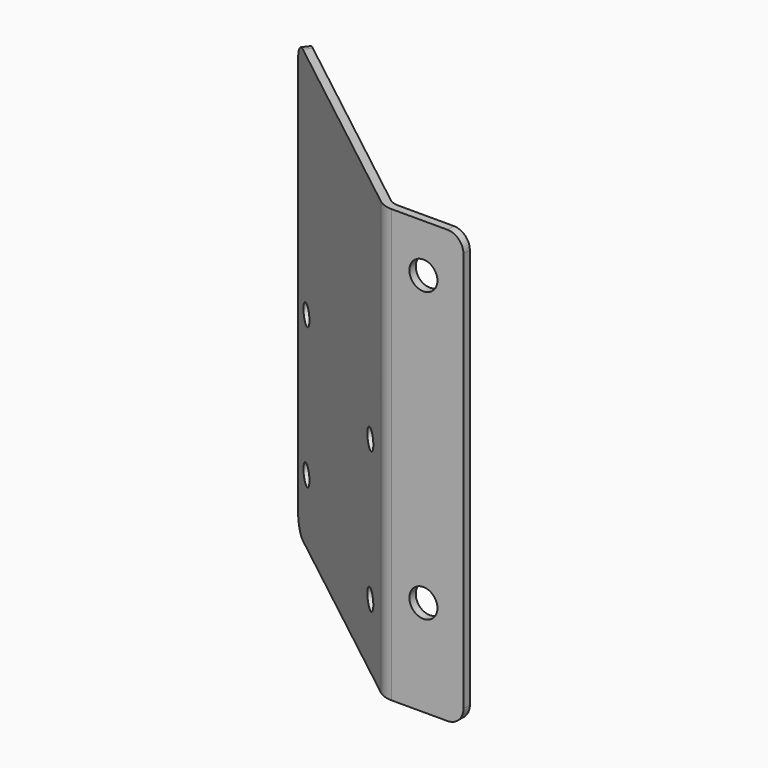
from build123d import *

# Parameters (mm, degrees)
F1_DEPTH = 171.45
F2_R     = 5.5626
F3_DEPTH = 72.873041
F4_R     = 3.9751
F5_DEPTH = 76.972204
F6_R     = 6.35


with BuildPart() as f1:
    # F0 (on Top) → F1 (new body)
    with BuildSketch(Plane.XY):
        with BuildLine():
            Line((0, 0), (0, 3.175))
            Line((0, 3.175), (-28.470279, 3.175))
            ThreePointArc((-28.470279, 3.175), (-30.537637, 3.520957), (-32.37973, 4.521132))
            Line((-32.37973, 4.521132), (-119.864904, 72.872041))
            Line((-119.864904, 72.872041), (-121.819629, 70.370107))
            Line((-121.819629, 70.370107), (-34.334455, 2.019198))
            ThreePointArc((-34.334455, 2.019198), (-31.571316, 0.518936), (-28.470279, 0))
            Line((-28.470279, 0), (0, 0))
        make_face()
    extrude(amount=F1_DEPTH)

    # F2 (on face) → F3 (cut, through all)
    with BuildSketch(Plane.XZ):
        with Locations((-15.875, 152.4)):
            Circle(F2_R)
        with Locations((-15.875, 38.1)):
            Circle(F2_R)
    extrude(amount=-F3_DEPTH, mode=Mode.SUBTRACT)

    # F4 (on face) → F5 (cut, through all)
    with BuildSketch(Plane(origin=(-12.03449, -15.403445, 0), x_dir=(0.788011, -0.615661, 0), z_dir=(-0.615661, -0.788011, 0))):
        with Locations((-128.194141, 81.28)):
            Circle(F4_R)
        with Locations((-42.469141, 81.28)):
            Circle(F4_R)
        with Locations((-42.469141, 25.4)):
            Circle(F4_R)
        with Locations((-128.194141, 25.4)):
            Circle(F4_R)
    extrude(amount=-F5_DEPTH, mode=Mode.SUBTRACT)

    # F6
    f6_edges = [f1.edges().sort_by_distance(p)[0] for p in [
        (-120.842267, 71.621074, 171.45),
        (-120.842267, 71.621074, 0),
        (0, 1.5875, 171.45),
        (0, 1.5875, 0),
    ]]
    fillet(f6_edges, radius=F6_R)


solid = f1.part
